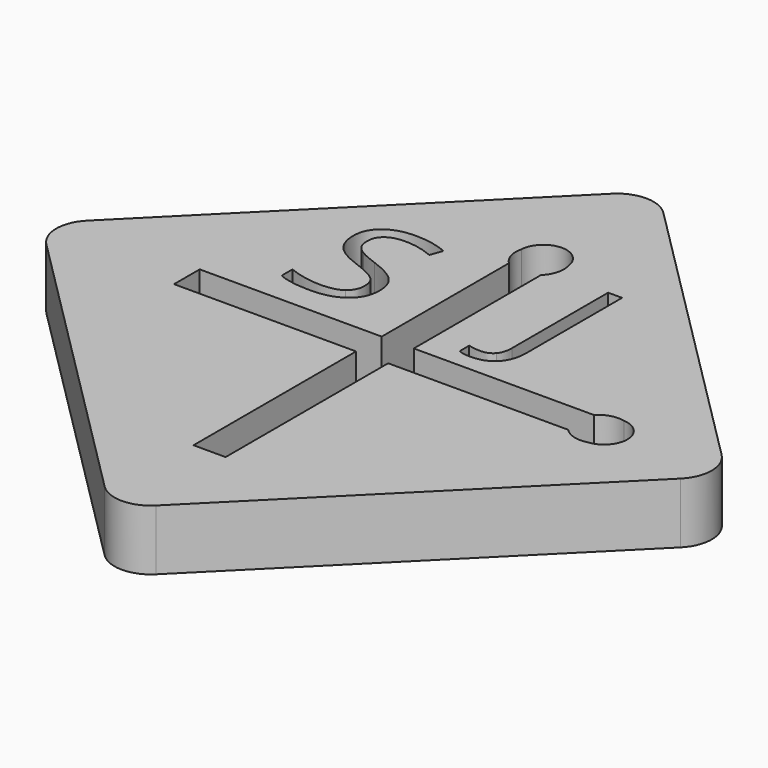
from build123d import *

# Parameters (mm, degrees)
F1_DEPTH = 2.5
F2_R     = 0.85
F3_DEPTH = 12.5


with BuildPart() as f1:
    # F0 (on Top) → F1 (new body)
    with BuildSketch(Plane.XY):
        with BuildLine():
            Line((13.081475452, -13.081475452), (1.0606601718, -1.0606601718))
            ThreePointArc((1.0606601718, -1.0606601718), (0, -0.6213203436), (-1.0606601718, -1.0606601718))
            Line((-1.0606601718, -1.0606601718), (-13.081475452, -13.081475452))
            ThreePointArc((-13.081475452, -13.081475452), (-13.5208152802, -14.1421356237), (-13.081475452, -15.2027957955))
            Line((-13.081475452, -15.2027957955), (-1.0606601718, -27.2236110757))
            ThreePointArc((-1.0606601718, -27.2236110757), (0, -27.6629509039), (1.0606601718, -27.2236110757))
            Line((1.0606601718, -27.2236110757), (13.081475452, -15.2027957955))
            ThreePointArc((13.081475452, -15.2027957955), (13.5208152802, -14.1421356237), (13.081475452, -13.081475452))
        make_face()
        with BuildLine():
            add(Edge.make_bspline(
                [(-2.9727151348, -10.1835160413), (-2.6797463848, -10.5025264579), (-2.6797463848, -11.0103389579)],
                knots=[0, 0, 0, 1, 1, 1], degree=2))
            add(Edge.make_bspline(
                [(-2.6797463848, -11.0103389579), (-2.6797463848, -11.6646358329), (-3.1544642668, -12.0313893052)],
                knots=[0, 0, 0, 1, 1, 1], degree=2))
            add(Edge.make_bspline(
                [(-3.1544642668, -12.0313893052), (-3.6291821487, -12.3981427774), (-4.4429842321, -12.3981427774)],
                knots=[0, 0, 0, 1, 1, 1], degree=2))
            add(Edge.make_bspline(
                [(-4.4429842321, -12.3981427774), (-5.3240606209, -12.3981427774), (-5.7993210376, -12.170278194)],
                knots=[0, 0, 0, 1, 1, 1], degree=2))
            Line((-5.7993210376, -12.170278194), (-5.7993210376, -11.6147226385))
            add(Edge.make_bspline(
                [(-5.7993210376, -11.6147226385), (-5.4933314543, -11.7427608329), (-5.1341734682, -11.8176306246)],
                knots=[0, 0, 0, 1, 1, 1], degree=2))
            add(Edge.make_bspline(
                [(-5.1341734682, -11.8176306246), (-4.7750154821, -11.8925004163), (-4.4223679126, -11.8925004163)],
                knots=[0, 0, 0, 1, 1, 1], degree=2))
            add(Edge.make_bspline(
                [(-4.4223679126, -11.8925004163), (-3.8461960376, -11.8925004163), (-3.5543123571, -11.6738589232)],
                knots=[0, 0, 0, 1, 1, 1], degree=2))
            add(Edge.make_bspline(
                [(-3.5543123571, -11.6738589232), (-3.2624286765, -11.4552174302), (-3.2624286765, -11.0645924302)],
                knots=[0, 0, 0, 1, 1, 1], degree=2))
            add(Edge.make_bspline(
                [(-3.2624286765, -11.0645924302), (-3.2624286765, -10.8074309718), (-3.3660528084, -10.643042951)],
                knots=[0, 0, 0, 1, 1, 1], degree=2))
            add(Edge.make_bspline(
                [(-3.3660528084, -10.643042951), (-3.4696769404, -10.4786549302), (-3.7121899612, -10.3392235065)],
                knots=[0, 0, 0, 1, 1, 1], degree=2))
            add(Edge.make_bspline(
                [(-3.7121899612, -10.3392235065), (-3.9547029821, -10.1997920829), (-4.4494946487, -10.0240108329)],
                knots=[0, 0, 0, 1, 1, 1], degree=2))
            add(Edge.make_bspline(
                [(-4.4494946487, -10.0240108329), (-5.1406838848, -9.7766149996), (-5.4374503779, -9.4375307982)],
                knots=[0, 0, 0, 1, 1, 1], degree=2))
            add(Edge.make_bspline(
                [(-5.4374503779, -9.4375307982), (-5.7342168709, -9.0984465968), (-5.7342168709, -8.5526566663)],
                knots=[0, 0, 0, 1, 1, 1], degree=2))
            add(Edge.make_bspline(
                [(-5.7342168709, -8.5526566663), (-5.7342168709, -7.9797399996), (-5.3039868362, -7.6406557982)],
                knots=[0, 0, 0, 1, 1, 1], degree=2))
            add(Edge.make_bspline(
                [(-5.3039868362, -7.6406557982), (-4.8737568015, -7.3015715968), (-4.1641213848, -7.3015715968)],
                knots=[0, 0, 0, 1, 1, 1], degree=2))
            add(Edge.make_bspline(
                [(-4.1641213848, -7.3015715968), (-3.4251890932, -7.3015715968), (-2.8045293709, -7.5728389579)],
                knots=[0, 0, 0, 1, 1, 1], degree=2))
            Line((-2.8045293709, -7.5728389579), (-2.9846508987, -8.0741410413))
            add(Edge.make_bspline(
                [(-2.9846508987, -8.0741410413), (-3.5988002043, -7.8169795829), (-4.1782272876, -7.8169795829)],
                knots=[0, 0, 0, 1, 1, 1], degree=2))
            add(Edge.make_bspline(
                [(-4.1782272876, -7.8169795829), (-4.6361265932, -7.8169795829), (-4.8938305862, -8.0133771524)],
                knots=[0, 0, 0, 1, 1, 1], degree=2))
            add(Edge.make_bspline(
                [(-4.8938305862, -8.0133771524), (-5.1515345793, -8.2097747218), (-5.1515345793, -8.5591670829)],
                knots=[0, 0, 0, 1, 1, 1], degree=2))
            add(Edge.make_bspline(
                [(-5.1515345793, -8.5591670829), (-5.1515345793, -8.8163285413), (-5.0565910029, -8.9812590968)],
                knots=[0, 0, 0, 1, 1, 1], degree=2))
            add(Edge.make_bspline(
                [(-5.0565910029, -8.9812590968), (-4.9616474265, -9.1461896524), (-4.7359529821, -9.2834509371)],
                knots=[0, 0, 0, 1, 1, 1], degree=2))
            add(Edge.make_bspline(
                [(-4.7359529821, -9.2834509371), (-4.5102585376, -9.4207122218), (-4.0458488154, -9.5867278468)],
                knots=[0, 0, 0, 1, 1, 1], degree=2))
            add(Edge.make_bspline(
                [(-4.0458488154, -9.5867278468), (-3.2656838848, -9.8645056246), (-2.9727151348, -10.1835160413)],
                knots=[0, 0, 0, 1, 1, 1], degree=2))
        make_face(mode=Mode.SUBTRACT)
        with BuildLine():
            Line((-8.1334756687, -14.8039748892), (-8.1334756687, -13.4802963582))
            Line((-8.1334756687, -13.4802963582), (-0.6236797201, -13.4802963582))
            Line((-0.6236797201, -13.4802963582), (-0.6236797201, -6.9198086858))
            ThreePointArc((-0.6236797201, -6.9198086858), (-0.9032194318, -6.4583786209), (-0.9135835525, -5.9189782686))
            ThreePointArc((-0.9135835525, -5.9189782686), (0.0168397474, -5.0141534426), (0.9868078824, -5.876451129))
            ThreePointArc((0.9868078824, -5.876451129), (0.9900106564, -6.4384308628), (0.6999988109, -6.9198086858))
            Line((0.6999988109, -6.9198086858), (0.6999988109, -13.4802963582))
            Line((0.6999988109, -13.4802963582), (8.1334756687, -13.4802963582))
            ThreePointArc((8.1334756687, -13.4802963582), (8.5949057336, -13.2007566465), (9.134306086, -13.1903925258))
            ThreePointArc((9.134306086, -13.1903925258), (10.0391309119, -14.1208158258), (9.1768332255, -15.0907839607))
            ThreePointArc((9.1768332255, -15.0907839607), (8.6148534917, -15.0939867347), (8.1334756687, -14.8039748892))
            Line((8.1334756687, -14.8039748892), (0.6999988109, -14.8039748892))
            Line((0.6999988109, -14.8039748892), (0.6999988109, -23.1867600232))
            Line((0.6999988109, -23.1867600232), (-0.6236797201, -23.1867600232))
            Line((-0.6236797201, -23.1867600232), (-0.6236797201, -14.8039748892))
            Line((-0.6236797201, -14.8039748892), (-8.1334756687, -14.8039748892))
        make_face(mode=Mode.SUBTRACT)
        with BuildLine():
            add(Edge.make_bspline(
                [(3.4079297135, -12.4389777291), (3.0824088802, -12.7932529027), (2.471514783, -12.7932529027)],
                knots=[0, 0, 0, 1, 1, 1], degree=2))
            add(Edge.make_bspline(
                [(2.471514783, -12.7932529027), (2.1535894357, -12.7932529027), (1.9702126996, -12.7021070694)],
                knots=[0, 0, 0, 1, 1, 1], degree=2))
            Line((1.9702126996, -12.7021070694), (1.9702126996, -12.2105706111))
            add(Edge.make_bspline(
                [(1.9702126996, -12.2105706111), (2.2110981163, -12.2778449166), (2.471514783, -12.2778449166)],
                knots=[0, 0, 0, 1, 1, 1], degree=2))
            add(Edge.make_bspline(
                [(2.471514783, -12.2778449166), (2.8078863107, -12.2778449166), (2.9825824913, -12.0743943958)],
                knots=[0, 0, 0, 1, 1, 1], degree=2))
            add(Edge.make_bspline(
                [(2.9825824913, -12.0743943958), (3.1572786719, -11.8709438749), (3.1572786719, -11.4879143611)],
                knots=[0, 0, 0, 1, 1, 1], degree=2))
            Line((3.1572786719, -11.4879143611), (3.1572786719, -6.5302320694))
            Line((3.1572786719, -6.5302320694), (3.7334505469, -6.5302320694))
            Line((3.7334505469, -6.5302320694), (3.7334505469, -11.4401713055))
            add(Edge.make_bspline(
                [(3.7334505469, -11.4401713055), (3.7334505469, -12.0847025555), (3.4079297135, -12.4389777291)],
                knots=[0, 0, 0, 1, 1, 1], degree=2))
        make_face(mode=Mode.SUBTRACT)
    extrude(amount=F1_DEPTH)

    # F2 (on Right) → F3 (cut, symmetric)
    with BuildSketch(Plane.YZ):
        with Locations((-2.4908210296, 1.292226194)):
            Circle(F2_R)
    extrude(amount=F3_DEPTH, both=True, mode=Mode.SUBTRACT)


solid = f1.part
